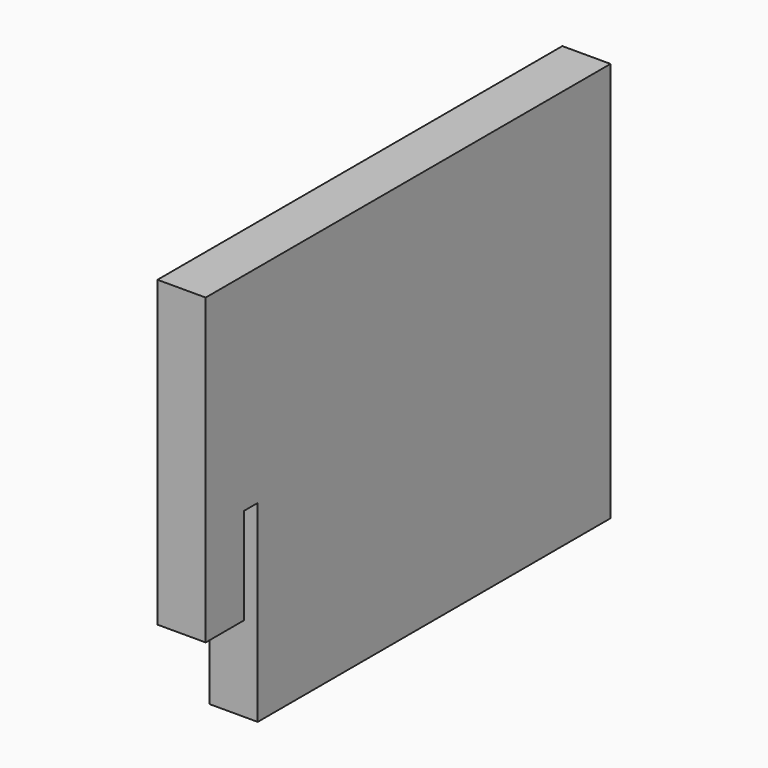
from build123d import *

# Parameters (mm, degrees)
EXTRUDE_DEPTH = 10


with BuildPart() as part:
    # Sketch → Extrude (new body)
    with BuildSketch(Plane.YZ):
        Polygon((0, -18), (-91.5, -18), (-91.5, 22), (-95, 22), (-95, 2), (-105, 2), (-105, 65), (0, 65), align=None)
    extrude(amount=EXTRUDE_DEPTH)


solid = part.part
